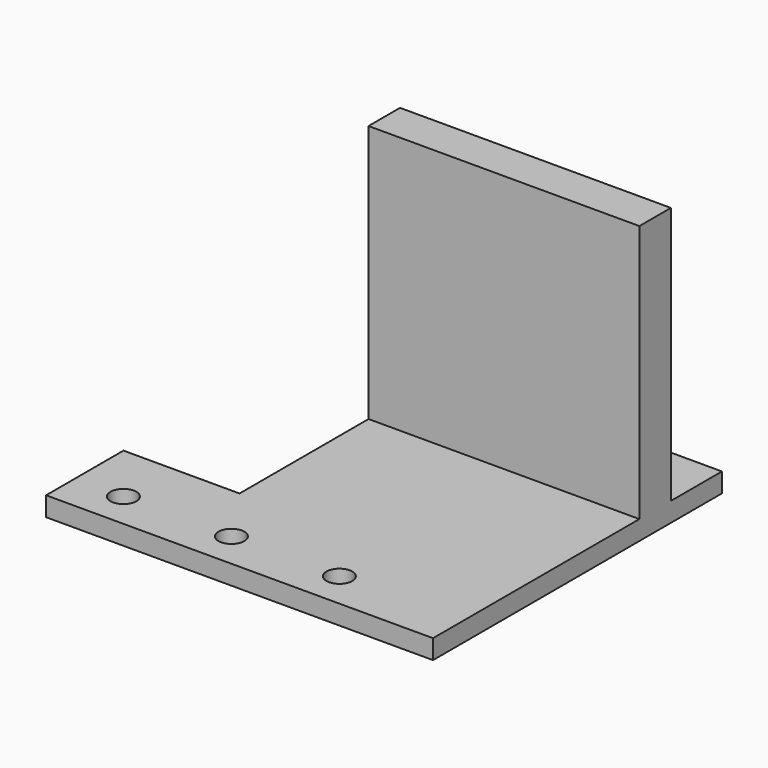
from build123d import *

# Parameters (mm, degrees)
SKETCH_R     = 2
PAD_DEPTH    = 3
SKETCH001_W  = 42
SKETCH001_H  = 6.104755
PAD001_DEPTH = 40


with BuildPart() as part:
    # Sketch → Pad (new body)
    with BuildSketch(Plane.XY):
        Polygon((0, 0), (60, 0), (60, 56), (18, 56), (18, 15), (0, 15), align=None)
        with Locations((24.26, 5.6)):
            Circle(SKETCH_R, mode=Mode.SUBTRACT)
        with Locations((41, 5.6)):
            Circle(SKETCH_R, mode=Mode.SUBTRACT)
        with Locations((7.52, 5.6)):
            Circle(SKETCH_R, mode=Mode.SUBTRACT)
    extrude(amount=PAD_DEPTH)

    # Sketch001 → Pad001 (new body)
    with BuildSketch(Plane.XY.offset(3)):
        with Locations((39, 43.052377)):
            Rectangle(SKETCH001_W, SKETCH001_H)
    extrude(amount=PAD001_DEPTH)


solid = part.part
